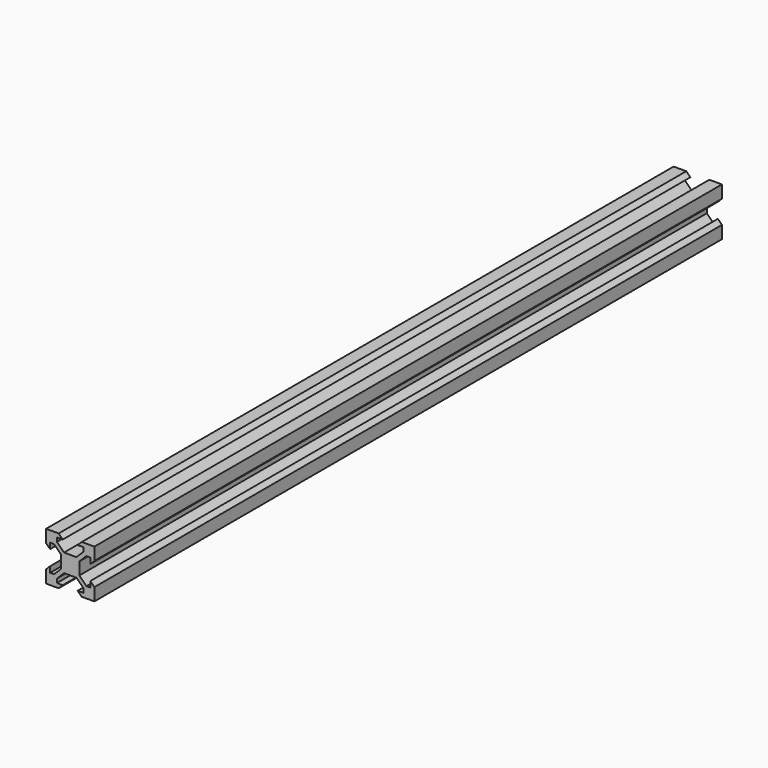
from build123d import *

# Parameters (mm, degrees)
F1_DEPTH = 162.5


with BuildPart() as f1:
    # F0 (on Front) → F1 (new body, symmetric)
    with BuildSketch(Plane.XZ):
        Polygon((-4.775, 10), (-10, 10), (-10, 4.775), (-8.325, 3.1), (-8.325, 5.5), (-6.684404, 5.5), (-3.75, 2.565596), (-3.75, 0), (-3.75, -2.565596), (-6.684404, -5.5), (-8.325, -5.5), (-8.325, -3.1), (-10, -4.775), (-10, -10), (-4.775, -10), (-3.1, -8.325), (-5.5, -8.325), (-5.5, -6.684404), (-2.565596, -3.75), (0, -3.75), (2.565596, -3.75), (5.5, -6.684404), (5.5, -8.325), (3.1, -8.325), (4.775, -10), (10, -10), (10, -4.775), (8.325, -3.1), (8.325, -5.5), (6.684404, -5.5), (3.75, -2.565596), (3.75, 0), (3.75, 2.565596), (6.684404, 5.5), (8.325, 5.5), (8.325, 3.1), (10, 4.775), (10, 10), (4.775, 10), (3.1, 8.325), (5.5, 8.325), (5.5, 6.684404), (2.565596, 3.75), (0, 3.75), (-2.565596, 3.75), (-5.5, 6.684404), (-5.5, 8.325), (-3.1, 8.325), align=None)
    extrude(amount=F1_DEPTH, both=True)


solid = f1.part
